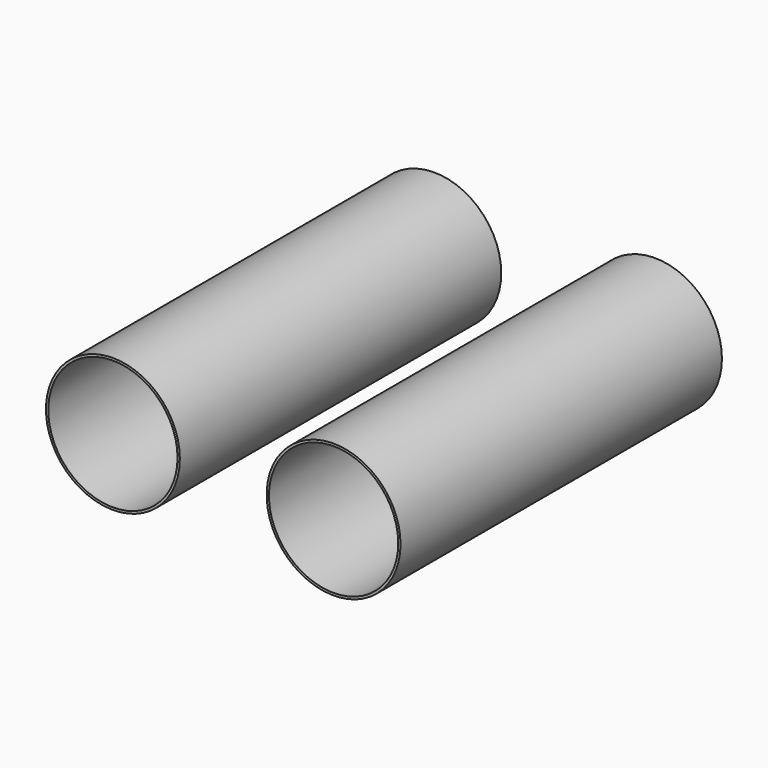
from build123d import *

# Parameters (mm, degrees)
F0_R     = 6.35
F1_DEPTH = 38.1
F2_R     = 6.129972
F3_DEPTH = 38.1


with BuildPart() as f1:
    # F0 (on Front) → F1 (new body)
    with BuildSketch(Plane.XZ):
        with Locations((-53.529579, -17.001122)):
            Circle(F0_R)
    extrude(amount=F1_DEPTH)

    # F2 (on face) → F3 (cut)
    with BuildSketch(Plane.XZ.offset(38.1)):
        with Locations((-53.529579, -17.001122)):
            Circle(F2_R)
    extrude(amount=-F3_DEPTH, mode=Mode.SUBTRACT)


with BuildPart() as f4_1:
    # F4: copy of F1
    add(f1.part.moved(Location((21.336, -0.508, 0))))


solid = Compound([f1.part, f4_1.part])
